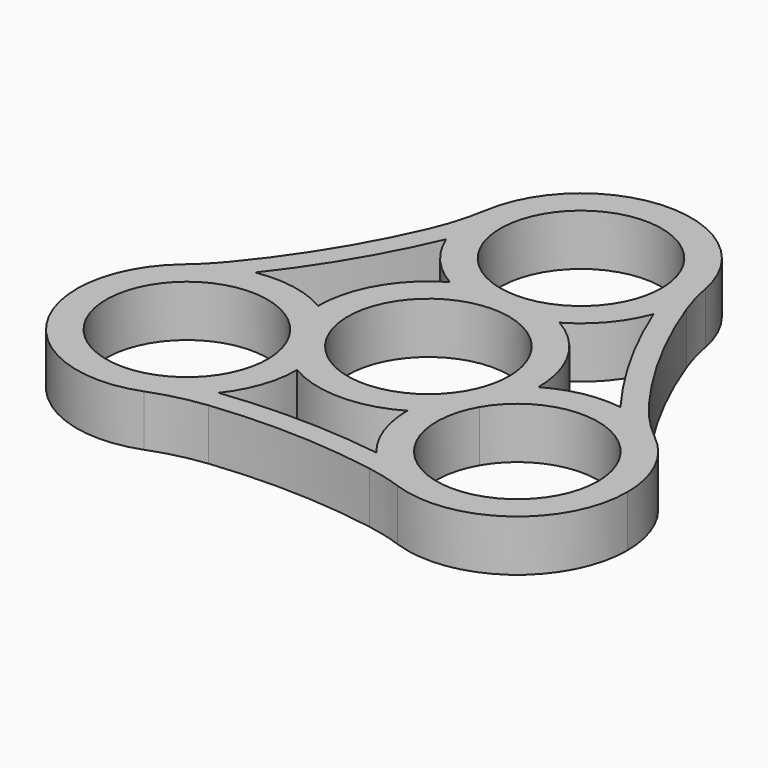
from build123d import *

# Parameters (mm, degrees)
F1_DEPTH = 7
F2_R     = 30


with BuildPart() as f1:
    # F0 (on Top) → F1 (new body)
    with BuildSketch(Plane.XY):
        with BuildLine():
            ThreePointArc((-13.9458281821, 20.4760633317), (-11.3479038896, 16.1905618249), (-7.4833147735, 13))
            ThreePointArc((-7.4833147735, 13), (-3.8729833256, 14.4913767517), (4.26e-08, 15))
            ThreePointArc((4.26e-08, 15), (3.8729833668, 14.4913767407), (7.4833147735, 13))
            ThreePointArc((7.4833147735, 13), (11.4579364901, 16.3193134856), (14.0670033826, 20.7923694606))
            ThreePointArc((14.0670033826, 20.7923694606), (14.7649085798, 23.3547259819), (15, 26))
            ThreePointArc((15, 26), (14.9881318268, 26.5965771885), (14.9525460877, 27.1922103396))
            ThreePointArc((14.9525460877, 27.1922103396), (-0.6061990993, 40.9877457495), (-14.999987636, 25.9807406984))
            ThreePointArc((-14.999987636, 25.9807406984), (-14.7322921357, 23.1787292883), (-13.9458281821, 20.4760633317))
        make_face()
        with BuildLine():
            ThreePointArc((11, 26), (7.7781746081, 18.221825422), (4.26e-08, 15))
            ThreePointArc((4.26e-08, 15), (-7.7781746081, 33.778174578), (11, 26))
        make_face(mode=Mode.SUBTRACT)
        with BuildLine():
            ThreePointArc((-7.4833147735, 13), (-3.8729833208, 11.508623247), (5.26e-08, 11))
            ThreePointArc((5.26e-08, 11), (3.8729833716, 11.5086232606), (7.4833147735, 13))
            ThreePointArc((7.4833147735, 13), (3.8729833668, 14.4913767407), (4.26e-08, 15))
            ThreePointArc((4.26e-08, 15), (-3.8729833256, 14.4913767517), (-7.4833147735, 13))
        make_face()
        with BuildLine():
            ThreePointArc((5.26e-08, 11), (7.7781746116, 7.7781745745), (11, 0))
            ThreePointArc((11, 0), (10.6251840814, -2.8470095251), (9.5262794117, -5.5000000519))
            ThreePointArc((9.5262794117, -5.5000000519), (11.9032517523, -2.4002096819), (14.999987636, -0.0192593016))
            ThreePointArc((14.999987636, -0.0192593016), (14.999996909, -0.0096296528), (15, 0))
            ThreePointArc((15, 0), (12.9855635535, 7.5083379784), (7.4833147735, 13))
            ThreePointArc((7.4833147735, 13), (3.8729833716, 11.5086232606), (5.26e-08, 11))
        make_face()
        with BuildLine():
            ThreePointArc((15, 26), (14.7649085798, 23.3547259819), (14.0670033826, 20.7923694606))
            ThreePointArc((14.0670033826, 20.7923694606), (18.7632858244, 10.9661480048), (24.7057051058, 1.8394098167))
            ThreePointArc((24.7057051058, 1.8394098167), (27.439514459, 1.1691746013), (29.9999752719, 0))
            ThreePointArc((29.9999752719, 0), (21.1431293427, 12.8583865681), (14.9525460877, 27.1922103396))
            ThreePointArc((14.9525460877, 27.1922103396), (14.9881318268, 26.5965771885), (15, 26))
        make_face()
        with BuildLine():
            ThreePointArc((24.7057051058, 1.8394098167), (19.6953897867, 1.7322921357), (14.999987636, -0.0192593016))
            ThreePointArc((14.999987636, -0.0192593016), (14.4863920627, -3.8915864381), (12.9903810244, -7.5000000561))
            ThreePointArc((12.9903810244, -7.5000000561), (10.613408702, -10.5997903623), (7.5166728624, -12.9807406984))
            ThreePointArc((7.5166728624, -12.9807406984), (8.4039718058, -18.0825208181), (10.9732184665, -22.5785670147))
            ThreePointArc((10.9732184665, -22.5785670147), (13.3069353398, -24.8398041582), (16.0728718952, -26.545389933))
            ThreePointArc((16.0728718952, -26.545389933), (30.5273774124, -25.681814323), (37.5166604984, -13))
            ThreePointArc((37.5166604984, -13), (35.5022240519, -5.4916620216), (29.9999752719, 0))
            ThreePointArc((29.9999752719, 0), (27.439514459, 1.1691746013), (24.7057051058, 1.8394098167))
        make_face()
        with BuildLine():
            ThreePointArc((33.5166604984, -13), (19.6696510336, -23.6251840976), (12.9903810244, -7.5000000561))
            ThreePointArc((12.9903810244, -7.5000000561), (25.3636699632, -2.3748159024), (33.5166604984, -13))
        make_face(mode=Mode.SUBTRACT)
        with BuildLine():
            ThreePointArc((14.999987636, -0.0192593016), (11.9032517523, -2.4002096819), (9.5262794117, -5.5000000519))
            ThreePointArc((9.5262794117, -5.5000000519), (8.0302684195, -9.1084136221), (7.5166728624, -12.9807406984))
            ThreePointArc((7.5166728624, -12.9807406984), (10.613408702, -10.5997903623), (12.9903810244, -7.5000000561))
            ThreePointArc((12.9903810244, -7.5000000561), (14.4863920627, -3.8915864381), (14.999987636, -0.0192593016))
        make_face()
        with BuildLine():
            ThreePointArc((7.5166728624, -12.9807406984), (8.0302684195, -9.1084136221), (9.5262794117, -5.5000000519))
            ThreePointArc((9.5262794117, -5.5000000519), (-5.2e-09, -11), (-9.5262794169, -5.5000000429))
            ThreePointArc((-9.5262794169, -5.5000000429), (-8.0302684209, -9.1084136171), (-7.5166728624, -12.9807406984))
            ThreePointArc((-7.5166728624, -12.9807406984), (0, -15), (7.5166728624, -12.9807406984))
        make_face()
        with BuildLine():
            ThreePointArc((16.0728718952, -26.545389933), (13.3069353398, -24.8398041582), (10.9732184665, -22.5785670147))
            ThreePointArc((10.9732184665, -22.5785670147), (0.1153198416, -21.7325561849), (-10.7598769237, -22.3154731484))
            ThreePointArc((-10.7598769237, -22.3154731484), (-12.7072223233, -24.3479038896), (-14.999987636, -25.9807406984))
            ThreePointArc((-14.999987636, -25.9807406984), (0.5641247483, -24.7396804103), (16.0728718952, -26.545389933))
        make_face()
        with BuildLine():
            ThreePointArc((-7.5166604984, -13), (-7.5166635894, -12.9903703472), (-7.5166728624, -12.9807406984))
            ThreePointArc((-7.5166728624, -12.9807406984), (-10.6134087435, -10.5997903208), (-12.990381083, -7.4999999545))
            ThreePointArc((-12.990381083, -7.4999999545), (-14.4863920779, -3.8915863815), (-14.999987636, -0.0192593016))
            ThreePointArc((-14.999987636, -0.0192593016), (-19.8619082959, 1.7632073325), (-25.0402218491, 1.7861975541))
            ThreePointArc((-25.0402218491, 1.7861975541), (-28.1653690959, 0.8957580283), (-31.025417983, -0.6468204065))
            ThreePointArc((-31.025417983, -0.6468204065), (-35.1933295133, -21.0188566945), (-14.999987636, -25.9807406984))
            ThreePointArc((-14.999987636, -25.9807406984), (-12.7072223233, -24.3479038896), (-10.7598769237, -22.3154731484))
            ThreePointArc((-10.7598769237, -22.3154731484), (-8.3506491752, -17.9319492282), (-7.5166604984, -13))
        make_face()
        with BuildLine():
            ThreePointArc((-11.5166604984, -13), (-33.1418445808, -15.8470095215), (-12.990381083, -7.4999999545))
            ThreePointArc((-12.990381083, -7.4999999545), (-11.891476416, -10.1529904785), (-11.5166604984, -13))
        make_face(mode=Mode.SUBTRACT)
        with BuildLine():
            ThreePointArc((-7.5166728624, -12.9807406984), (-8.0302684209, -9.1084136171), (-9.5262794169, -5.5000000429))
            ThreePointArc((-9.5262794169, -5.5000000429), (-11.903251756, -2.4002096782), (-14.999987636, -0.0192593016))
            ThreePointArc((-14.999987636, -0.0192593016), (-14.4863920779, -3.8915863815), (-12.990381083, -7.4999999545))
            ThreePointArc((-12.990381083, -7.4999999545), (-10.6134087435, -10.5997903208), (-7.5166728624, -12.9807406984))
        make_face()
        with BuildLine():
            ThreePointArc((-9.5262794169, -5.5000000429), (-9.5262794409, 5.5000000013), (5.26e-08, 11))
            ThreePointArc((5.26e-08, 11), (-3.8729833208, 11.508623247), (-7.4833147735, 13))
            ThreePointArc((-7.4833147735, 13), (-12.9903810568, 7.5), (-14.999987636, -0.0192593016))
            ThreePointArc((-14.999987636, -0.0192593016), (-11.903251756, -2.4002096782), (-9.5262794169, -5.5000000429))
        make_face()
        with BuildLine():
            ThreePointArc((-25.0402218491, 1.7861975541), (-18.8786056661, 10.76640818), (-13.9458281821, 20.4760633317))
            ThreePointArc((-13.9458281821, 20.4760633317), (-14.7322921357, 23.1787292883), (-14.999987636, 25.9807406984))
            ThreePointArc((-14.999987636, 25.9807406984), (-21.707254091, 11.8812938422), (-31.025417983, -0.6468204065))
            ThreePointArc((-31.025417983, -0.6468204065), (-28.1653690959, 0.8957580283), (-25.0402218491, 1.7861975541))
        make_face()
    extrude(amount=F1_DEPTH)

    # F2
    f2_edges = [f1.edges().sort_by_distance(p)[0] for p in [
        (-14.999988, 25.980741, 3.5),
        (-31.025418, -0.64682, 3.5),
        (-14.999988, -25.980741, 3.5),
        (16.072872, -26.54539, 3.5),
        (14.952546, 27.19221, 3.5),
        (29.999975, 0, 3.5),
    ]]
    fillet(f2_edges, radius=F2_R)


solid = f1.part
